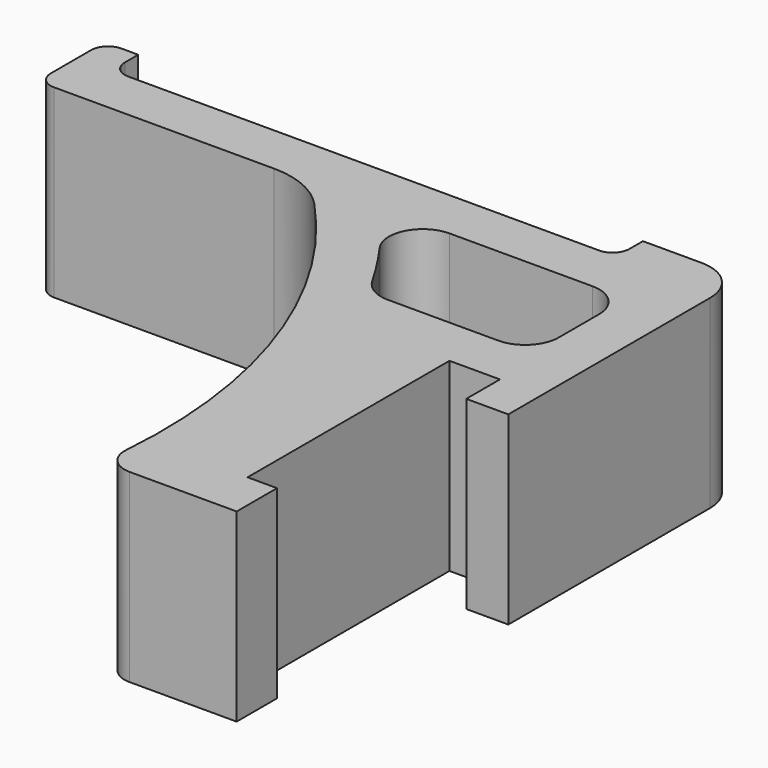
from build123d import *

# Parameters (mm, degrees)
F1_DEPTH = 22
F2_R     = 10
F3_R     = 3
F4_R     = 4
F5_R     = 5
F6_R     = 2
F7_R     = 2


with BuildPart() as f1:
    # F0 (on Top) → F1 (new body)
    with BuildSketch(Plane.XY):
        with BuildLine():
            ThreePointArc((-43.69757, 0), (-26.876888, -25.571939), (-23.561389, -56))
            Line((-23.561389, -56), (-7.5, -56))
            Line((-7.5, -56), (-7.5, -50))
            Line((-7.5, -50), (-11, -50))
            Line((-11, -50), (-11, -20))
            Line((-11, -20), (-5, -20))
            Line((-5, -20), (-5, -25))
            Line((-5, -25), (0, -25))
            Line((0, -25), (0, 0))
            Line((0, 0), (0, 10))
            Line((0, 10), (-12, 10))
            Line((-12, 10), (-12, 6))
            Line((-12, 6), (-72, 6))
            Line((-72, 6), (-72, 10))
            Line((-72, 10), (-76, 10))
            Line((-76, 10), (-76, 0))
            Line((-76, 0), (-43.69757, 0))
        make_face()
        with BuildLine():
            Line((-6, -14), (-25.474719, -14))
            ThreePointArc((-25.474719, -14), (-29.967584, -6.70409), (-35.303435, 0))
            Line((-35.303435, 0), (-6, 0))
            Line((-6, 0), (-6, -14))
        make_face(mode=Mode.SUBTRACT)
    extrude(amount=F1_DEPTH)

    # F2
    f2_edges = [f1.edges().sort_by_distance(p)[0] for p in [
        (-43.69757, 0, 11),
    ]]
    fillet(f2_edges, radius=F2_R)

    # F3
    f3_edges = [f1.edges().sort_by_distance(p)[0] for p in [
        (-23.561389, -56, 11),
    ]]
    fillet(f3_edges, radius=F3_R)

    # F4
    f4_edges = [f1.edges().sort_by_distance(p)[0] for p in [
        (-35.303435, 0, 11),
        (-6, 0, 11),
        (-25.474719, -14, 11),
        (-6, -14, 11),
    ]]
    fillet(f4_edges, radius=F4_R)

    # F5
    f5_edges = [f1.edges().sort_by_distance(p)[0] for p in [
        (0, 10, 11),
    ]]
    fillet(f5_edges, radius=F5_R)

    # F6
    f6_edges = [f1.edges().sort_by_distance(p)[0] for p in [
        (-12, 6, 11),
        (-72, 6, 11),
    ]]
    fillet(f6_edges, radius=F6_R)

    # F7
    f7_edges = [f1.edges().sort_by_distance(p)[0] for p in [
        (-76, 10, 11),
        (-76, 0, 11),
    ]]
    fillet(f7_edges, radius=F7_R)


solid = f1.part
